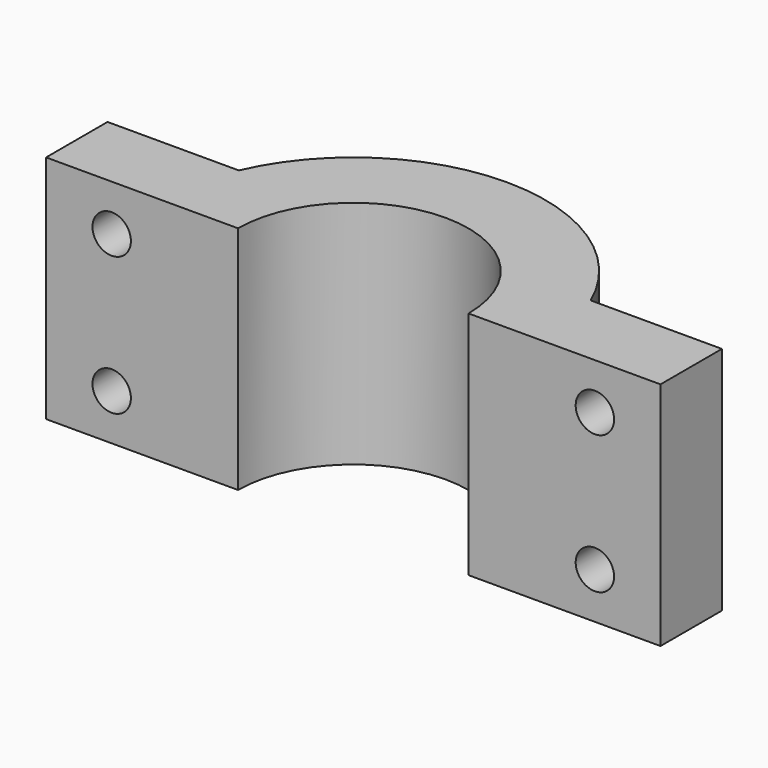
from build123d import *

# Parameters (mm, degrees)
F1_DEPTH = 15
F2_R     = 2.5
F3_DEPTH = 15
F5_DEPTH = 3


with BuildPart() as f1:
    # F0 (on Top) → F1 (new body, symmetric)
    with BuildSketch(Plane.XY):
        with BuildLine():
            ThreePointArc((-15, 0), (0, 15), (15, 0))
            Line((15, 0), (40, 0))
            Line((40, 0), (40, 10))
            Line((40, 10), (22.912878, 10))
            ThreePointArc((22.912878, 10), (0, 25), (-22.912878, 10))
            Line((-22.912878, 10), (-40, 10))
            Line((-40, 10), (-40, 0))
            Line((-40, 0), (-15, 0))
        make_face()
    extrude(amount=F1_DEPTH, both=True)

    # F2 (on face) → F3 (cut)
    with BuildSketch(Plane(origin=(0, 10, 0), x_dir=(-1, 0, 0), z_dir=(0, 1, 0))):
        with Locations((-31.456439, 9)):
            Circle(F2_R)
        with Locations((-31.456439, -9)):
            Circle(F2_R)
        with Locations((31.456439, -9)):
            Circle(F2_R)
        with Locations((31.456439, 9)):
            Circle(F2_R)
    extrude(amount=-F3_DEPTH, mode=Mode.SUBTRACT)

    # F4 (on face) → F5 (cut)
    with BuildSketch(Plane(origin=(0, 10, 0), x_dir=(-1, 0, 0), z_dir=(0, 1, 0))):
        Polygon((29.724388, 6), (33.18849, 6), (34.920541, 9), (33.18849, 12), (29.724388, 12), (27.992338, 9), align=None)
        Polygon((27.992338, -9), (29.724388, -12), (33.18849, -12), (34.920541, -9), (33.18849, -6), (29.724388, -6), align=None)
        Polygon((-33.18849, -6), (-34.920541, -9), (-33.18849, -12), (-29.724388, -12), (-27.992338, -9), (-29.724388, -6), align=None)
        Polygon((-34.920541, 9), (-33.18849, 6), (-29.724388, 6), (-27.992338, 9), (-29.724388, 12), (-33.18849, 12), align=None)
    extrude(amount=-F5_DEPTH, mode=Mode.SUBTRACT)


solid = f1.part
